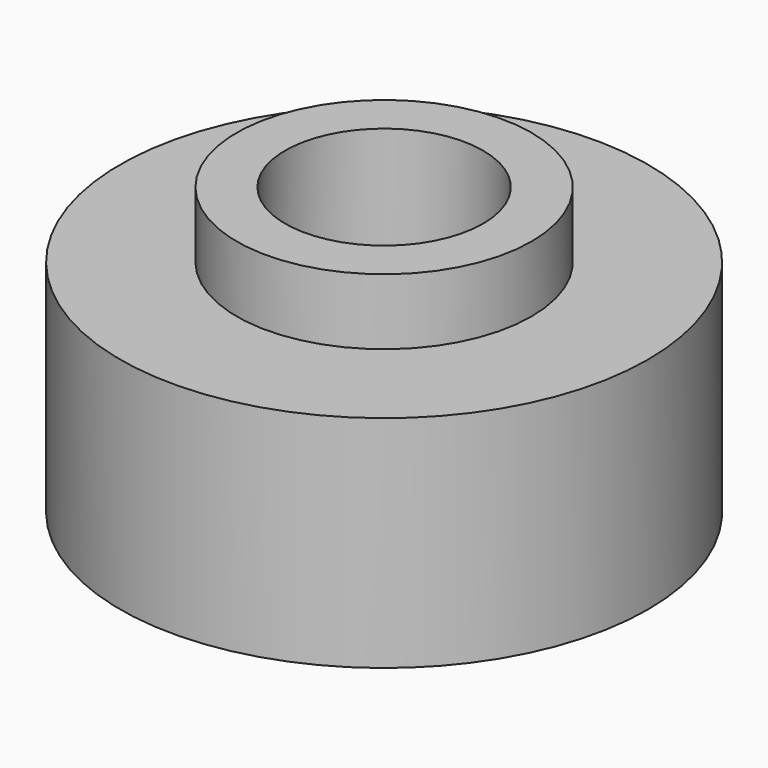
from build123d import *

# Parameters (mm, degrees)
F0_R     = 3.35
F0_R_2   = 2.25
F1_DEPTH = 6.5
F0_R_3   = 6
F2_DEPTH = 5
F3_R     = 3.35
F4_DEPTH = 4


with BuildPart() as f1:
    # F0 (on Top) → F1 (new body)
    with BuildSketch(Plane.XY):
        Circle(F0_R)
        Circle(F0_R_2, mode=Mode.SUBTRACT)
    extrude(amount=F1_DEPTH)

    # F0 (on Top) → F2 (join)
    with BuildSketch(Plane.XY):
        Circle(F0_R_3)
        Circle(F0_R, mode=Mode.SUBTRACT)
    extrude(amount=F2_DEPTH)

    # F3 (on face) + F0 (on Top) → F4 (cut)
    with BuildSketch(Plane.XY):
        Polygon((3.8, 2.193931), (0, 4.387862), (-3.8, 2.193931), (-3.8, -2.193931), (0, -4.387862), (3.8, -2.193931), align=None)
        Circle(F3_R, mode=Mode.SUBTRACT)
    with BuildSketch(Plane.XY):
        Circle(F0_R)
        Circle(F0_R_2, mode=Mode.SUBTRACT)
    extrude(amount=F4_DEPTH, mode=Mode.SUBTRACT)


solid = f1.part
